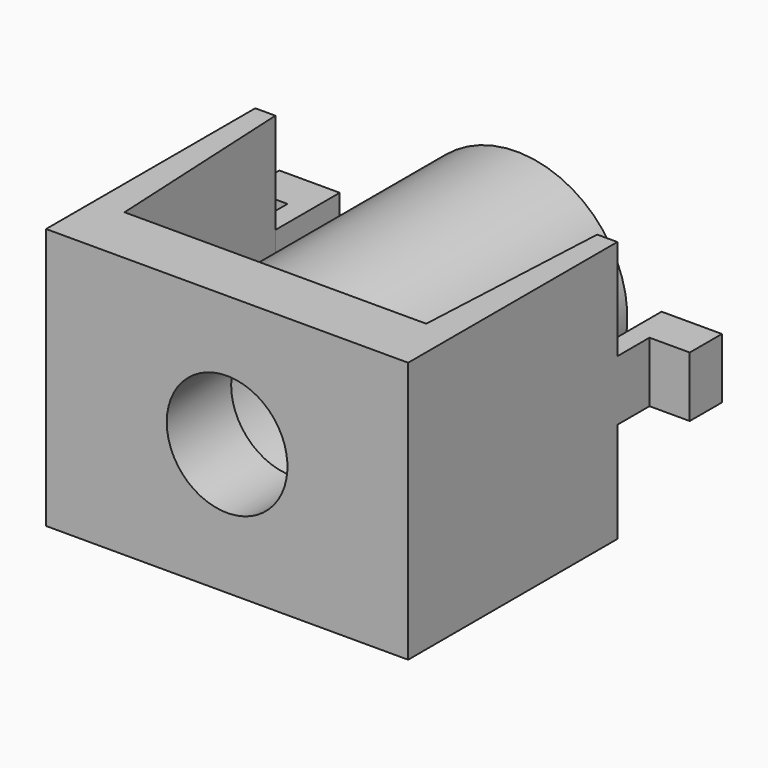
from build123d import *

# Parameters (mm, degrees)
PAD_DEPTH       = 13
SKETCH001_R     = 5.5
PAD001_DEPTH    = 15
SKETCH002_R     = 5
POCKET_DEPTH    = 14
SKETCH003_R     = 3
POCKET001_DEPTH = 4.001
SKETCH005_W     = 1
SKETCH005_H     = 3
PAD002_DEPTH    = 4
SKETCH006_W     = 1
SKETCH006_H     = 3
PAD003_DEPTH    = 4
SKETCH007_W     = 2
SKETCH007_H     = 3
PAD004_DEPTH    = 2
SKETCH008_W     = 2
SKETCH008_H     = 3
PAD005_DEPTH    = 2
SKETCH009_R     = 5
SKETCH009_R_2   = 4.5
PAD006_DEPTH    = 13


with BuildPart() as part:
    # Sketch → Pad (new body)
    with BuildSketch(Plane.XY):
        Polygon((-7.5, 1.5), (7.5, 1.5), (8, 11.5), (9, 11.5), (9, -1.5), (-9, -1.5), (-9, 11.5), (-8, 11.5), align=None)
    extrude(amount=PAD_DEPTH)

    # Sketch001 (on Face5 of Pad) → Pad001 (join)
    with BuildSketch(Plane(origin=(0, 1.5, 0), x_dir=(-1, 0, 0), z_dir=(0, 1, 0))):
        with Locations((0, 6.5)):
            Circle(SKETCH001_R)
    extrude(amount=PAD001_DEPTH)

    # Sketch002 (on Face12 of Pad001) → Pocket (cut)
    with BuildSketch(Plane(origin=(0, 16.5, 0), x_dir=(-1, 0, 0), z_dir=(0, 1, 0))):
        with Locations((0, 6.5)):
            Circle(SKETCH002_R)
    extrude(amount=-POCKET_DEPTH, mode=Mode.SUBTRACT)

    # Sketch003 (on Face14 of Pocket) → Pocket001 (cut, through all)
    with BuildSketch(Plane(origin=(0, 2.5, 0), x_dir=(-1, 0, 0), z_dir=(0, 1, 0))):
        with Locations((0, 6.5)):
            Circle(SKETCH003_R)
    extrude(amount=-POCKET001_DEPTH, mode=Mode.SUBTRACT)

    # Sketch005 (on Face8 of Pocket001) → Pad002 (join)
    with BuildSketch(Plane(origin=(0, 11.5, 0), x_dir=(-1, 0, 0), z_dir=(0, 1, 0))):
        with Locations((8.5, 6.5)):
            Rectangle(SKETCH005_W, SKETCH005_H)
    extrude(amount=PAD002_DEPTH)

    # Sketch006 (on Face7 of Pad002) → Pad003 (join)
    with BuildSketch(Plane(origin=(0, 11.5, 0), x_dir=(-1, 0, 0), z_dir=(0, 1, 0))):
        with Locations((-8.5, 6.5)):
            Rectangle(SKETCH006_W, SKETCH006_H)
    extrude(amount=PAD003_DEPTH)

    # Sketch007 (on Face15 of Pad003) → Pad004 (join)
    with BuildSketch(Plane(origin=(-9, 0, 0), x_dir=(0, -1, 0), z_dir=(-1, 0, 0))):
        with Locations((-14.5, 6.5)):
            Rectangle(SKETCH007_W, SKETCH007_H)
    extrude(amount=PAD004_DEPTH)

    # Sketch008 (on Face8 of Pad004) → Pad005 (join)
    with BuildSketch(Plane.YZ.offset(9)):
        with Locations((14.5, 6.5)):
            Rectangle(SKETCH008_W, SKETCH008_H)
    extrude(amount=PAD005_DEPTH)

    # Sketch009 (on Face16 of Pad005) → Pad006 (join)
    with BuildSketch(Plane(origin=(0, 2.5, 0), x_dir=(-1, 0, 0), z_dir=(0, 1, 0))):
        with Locations((0, 6.5)):
            Circle(SKETCH009_R)
        with Locations((0, 6.5)):
            Circle(SKETCH009_R_2, mode=Mode.SUBTRACT)
    extrude(amount=PAD006_DEPTH)


solid = part.part
